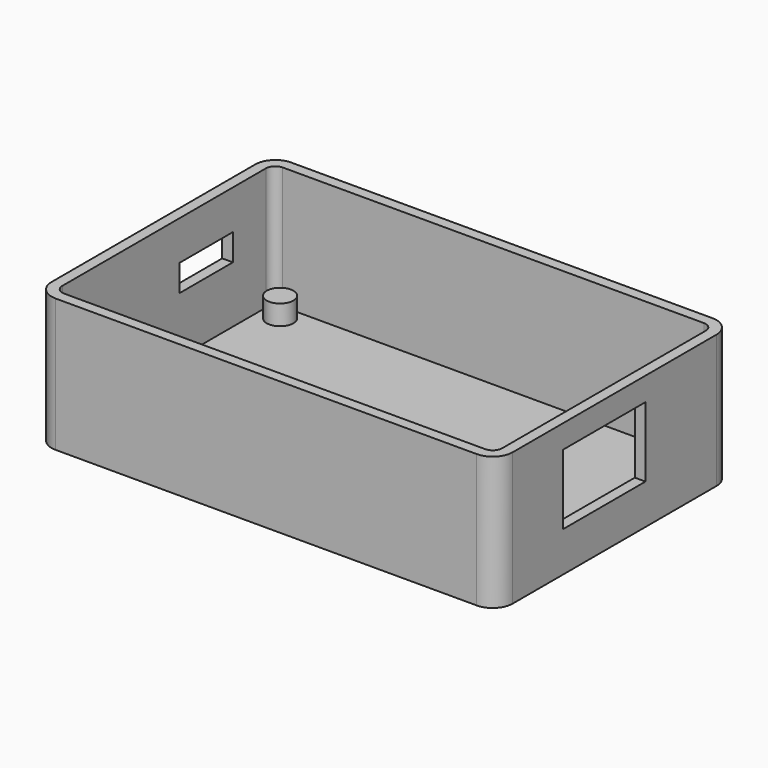
from build123d import *

# Parameters (mm, degrees)
F0_W     = 69.2
F0_H     = 44.2
F1_DEPTH = 20
F2_R     = 3
F3_T     = -1.6
F4_R     = 2
F5_DEPTH = 3
F6_W     = 15.5
F6_H     = 10.5
F7_DEPTH = 1.6
F8_W     = 10
F8_H     = 4
F9_DEPTH = 1.6


with BuildPart() as f1:
    # F0 (on Top) → F1 (new body)
    with BuildSketch(Plane.XY):
        Rectangle(F0_W, F0_H)
    extrude(amount=F1_DEPTH)

    # F2
    f2_edges = [f1.edges().sort_by_distance(p)[0] for p in [
        (34.6, -22.1, 10),
        (34.6, 22.1, 10),
        (-34.6, 22.1, 10),
        (-34.6, -22.1, 10),
    ]]
    fillet(f2_edges, radius=F2_R)

    # F3
    f3_openings = [f1.faces().sort_by_distance(p)[0] for p in [
        (0, 0, 20),
    ]]
    offset(amount=F3_T, openings=f3_openings)

    # F4 (on face) → F5 (join)
    with BuildSketch(Plane.XY.offset(1.6)):
        with Locations((-30, 18)):
            Circle(F4_R)
        with Locations((30, 18)):
            Circle(F4_R)
        with Locations((30, -18)):
            Circle(F4_R)
        with Locations((-30, -18)):
            Circle(F4_R)
    extrude(amount=F5_DEPTH)

    # F6 (on face) → F7 (cut, through all)
    with BuildSketch(Plane.YZ.offset(34.6)):
        with Locations((-1.95, 11.25)):
            Rectangle(F6_W, F6_H)
    extrude(amount=-F7_DEPTH, mode=Mode.SUBTRACT)

    # F8 (on face) → F9 (cut, through all)
    with BuildSketch(Plane(origin=(-34.6, 0, 0), x_dir=(0, -1, 0), z_dir=(-1, 0, 0))):
        with Locations((-7.9, 12.1)):
            Rectangle(F8_W, F8_H)
    extrude(amount=-F9_DEPTH, mode=Mode.SUBTRACT)


solid = f1.part
